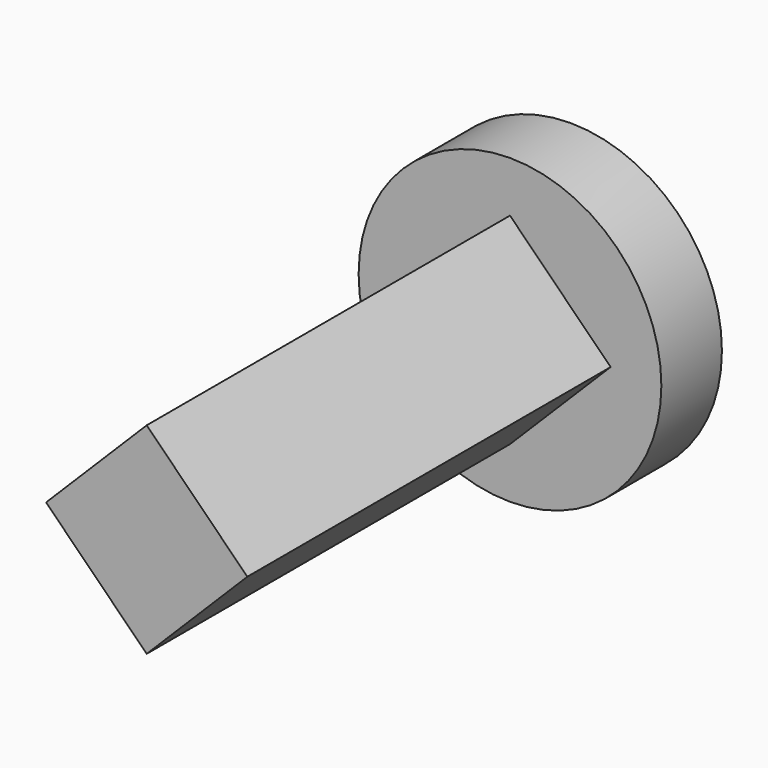
from build123d import *

# Parameters (mm, degrees)
F0_R     = 12.7
F1_DEPTH = 6.35
F3_DEPTH = 38.1


with BuildPart() as f1:
    # F0 (on Front) → F1 (new body)
    with BuildSketch(Plane.XZ):
        Circle(F0_R)
    extrude(amount=F1_DEPTH)

    # F2 (on face) → F3 (join)
    with BuildSketch(Plane.XZ.offset(6.35)):
        Polygon((0, -8.441441), (8.441441, 0), (0, 8.441441), (-8.441441, 0), align=None)
    extrude(amount=F3_DEPTH)


solid = f1.part
